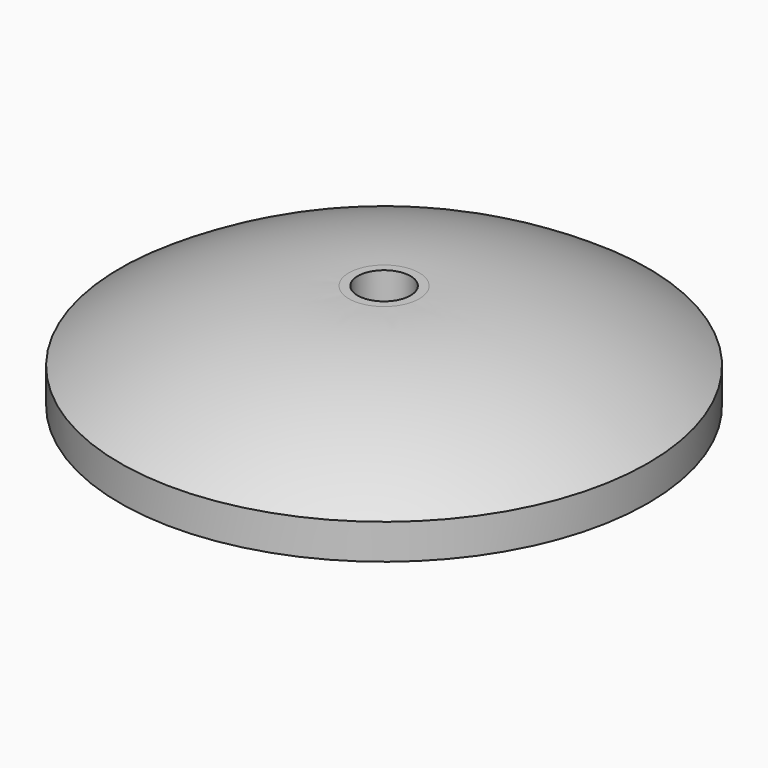
from build123d import *

# Parameters (mm, degrees)
F2_R     = 15
F3_DEPTH = 100


with BuildPart() as f1:
    # F0 (on Front) → F1 (revolve)
    with BuildSketch(Plane.XZ):
        with BuildLine():
            Line((0, 60), (0, 0))
            Line((0, 0), (150, 0))
            Line((150, 0), (150, 20))
            ThreePointArc((150, 20), (88.007353, 49.773896), (20, 60))
            Line((20, 60), (0, 60))
        make_face()
    revolve(axis=Axis((0, 0, 30), (0, 0, 1)))

    # F2 (on face) → F3 (cut)
    with BuildSketch(Plane.XY.offset(60)):
        Circle(F2_R)
    extrude(amount=-F3_DEPTH, mode=Mode.SUBTRACT)


solid = f1.part
